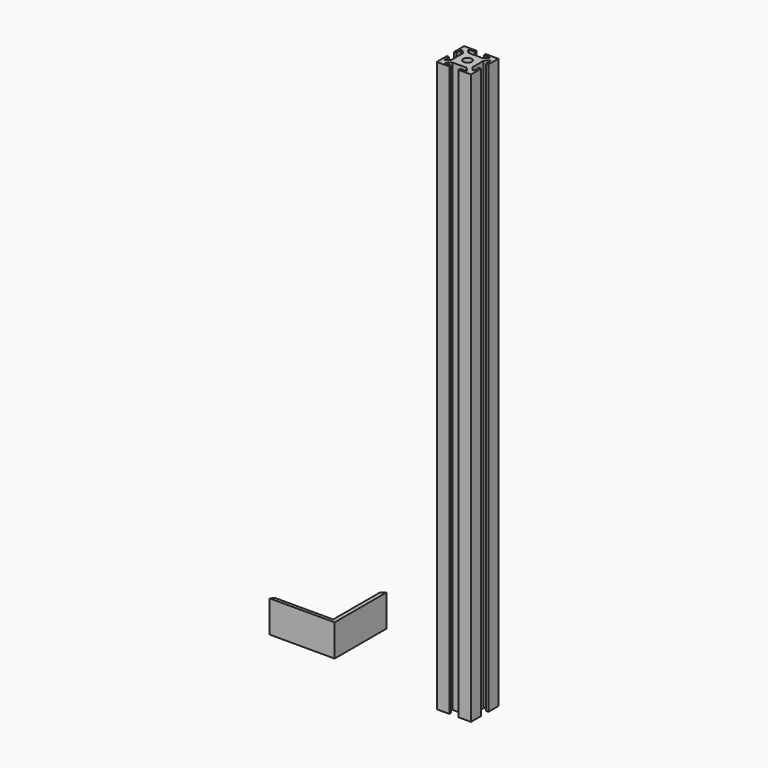
from build123d import *

# Parameters (mm, degrees)
F0_R     = 3.65
F1_DEPTH = 500
F3_DEPTH = 28
F4_DEPTH = 4
F5_DEPTH = 500


with BuildPart() as f1:
    # F0 (on Top) → F1 (new body)
    with BuildSketch(Plane.XY):
        Polygon((-4, 13), (-4, 15), (-15, 15), (-15, 4), (-13, 4), (-13, 9.2621), (-11.860803, 9.2621), (-9, 6.177421), (-9, 0), (-9, -6.177421), (-11.860803, -9.2621), (-13, -9.2621), (-13, -4), (-15, -4), (-15, -15), (-4, -15), (-4, -13), (-9.2621, -13), (-9.2621, -11.860803), (-6.177421, -9), (0, -9), (6.177421, -9), (9.2621, -11.860803), (9.2621, -13), (4, -13), (4, -15), (15, -15), (15, -4), (13, -4), (13, -9.2621), (11.860803, -9.2621), (9, -6.177421), (9, 0), (9, 6.177421), (11.860803, 9.2621), (13, 9.2621), (13, 4), (15, 4), (15, 15), (4, 15), (4, 13), (9.2621, 13), (9.2621, 11.860803), (6.177421, 9), (0, 9), (-6.177421, 9), (-9.2621, 11.860803), (-9.2621, 13), align=None)
        Circle(F0_R, mode=Mode.SUBTRACT)
    extrude(amount=F1_DEPTH)


with BuildPart() as f3:
    # F2 (on Top) → F3 (new body)
    with BuildSketch(Plane.XY):
        Polygon((-170.836399, 2.776854), (-173.613252, 0), (-116.613252, 0), (-116.613252, 57), (-120.065376, 53.547876), (-120.065376, 2.776854), align=None)
    extrude(amount=F3_DEPTH)

    # F2 (on Top) → F4 (join)
    with BuildSketch(Plane.XY):
        Polygon((-120.065376, 53.547876), (-170.836399, 2.776854), (-120.065376, 2.776854), align=None)
    extrude(amount=F4_DEPTH)


with BuildPart() as f5:
    # F0 (on Top) → F5 (new body)
    with BuildSketch(Plane.XY):
        Polygon((-4, 13), (-4, 15), (-15, 15), (-15, 4), (-13, 4), (-13, 9.2621), (-11.860803, 9.2621), (-9, 6.177421), (-9, 0), (-9, -6.177421), (-11.860803, -9.2621), (-13, -9.2621), (-13, -4), (-15, -4), (-15, -15), (-4, -15), (-4, -13), (-9.2621, -13), (-9.2621, -11.860803), (-6.177421, -9), (0, -9), (6.177421, -9), (9.2621, -11.860803), (9.2621, -13), (4, -13), (4, -15), (15, -15), (15, -4), (13, -4), (13, -9.2621), (11.860803, -9.2621), (9, -6.177421), (9, 0), (9, 6.177421), (11.860803, 9.2621), (13, 9.2621), (13, 4), (15, 4), (15, 15), (4, 15), (4, 13), (9.2621, 13), (9.2621, 11.860803), (6.177421, 9), (0, 9), (-6.177421, 9), (-9.2621, 11.860803), (-9.2621, 13), align=None)
        Circle(F0_R, mode=Mode.SUBTRACT)
    extrude(amount=F5_DEPTH)


solid = Compound([f1.part, f3.part, f5.part])
